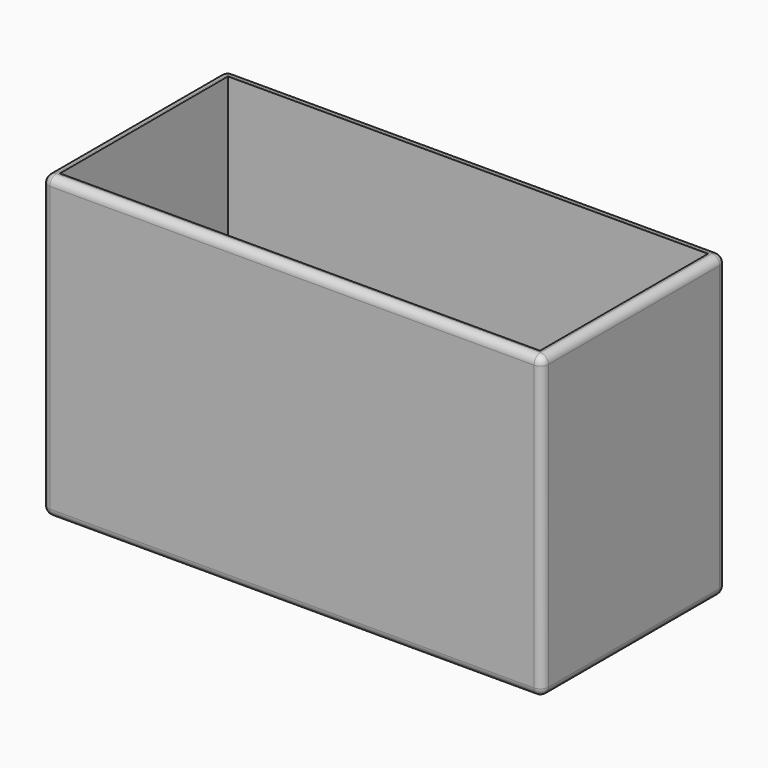
from build123d import *

# Parameters (mm, degrees)
BOX001_W     = 480
BOX001_H     = 210
BOX001_DEPTH = 320
BOX_W        = 500
BOX_H        = 230
BOX_DEPTH    = 300
FILLET004_R  = 8


with BuildPart() as cube001:
    # Box001 → Box001 (new body)
    with BuildSketch(Plane(origin=(10, 10, 10), x_dir=(1, 0, 0), z_dir=(0, 0, 1))):
        with Locations((240, 105)):
            Rectangle(BOX001_W, BOX001_H)
    extrude(amount=BOX001_DEPTH)


with BuildPart() as solar_box:
    # Box → Box (new body)
    with BuildSketch(Plane.XY):
        with Locations((250, 115)):
            Rectangle(BOX_W, BOX_H)
    extrude(amount=BOX_DEPTH)

    # Cut: cut Cube001
    add(cube001.part, mode=Mode.SUBTRACT)

    # Fillet004
    fillet004_edges = [solar_box.edges().sort_by_distance(p)[0] for p in [
        (0, 0, 150),
        (0, 115, 300),
        (0, 230, 150),
        (0, 115, 0),
        (250, 0, 0),
        (500, 0, 150),
        (250, 0, 300),
        (250, 230, 300),
        (500, 115, 300),
        (250, 230, 0),
        (500, 230, 150),
        (500, 115, 0),
    ]]
    fillet(fillet004_edges, radius=FILLET004_R)


solid = solar_box.part
